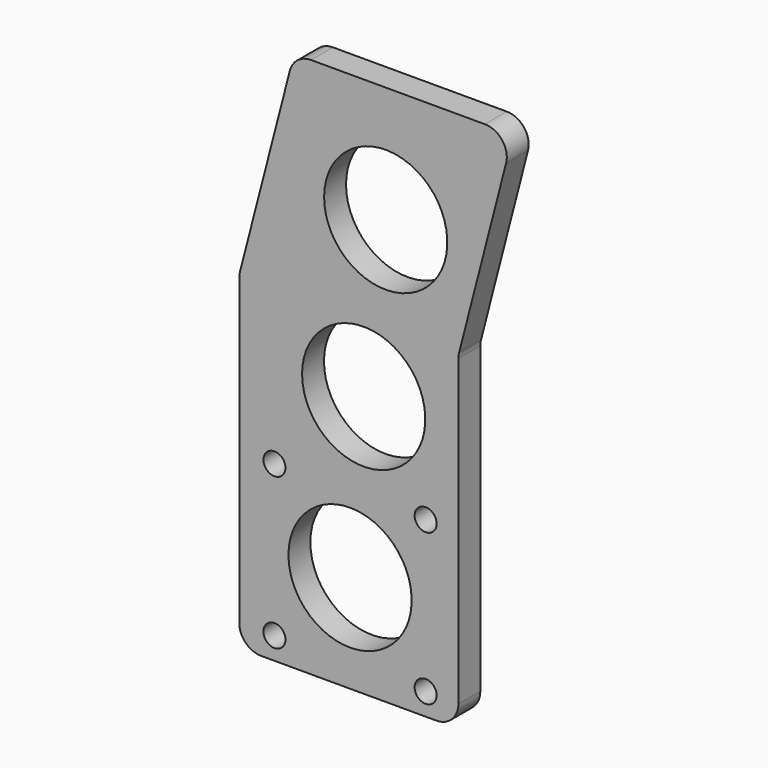
from build123d import *

# Parameters (mm, degrees)
F0_W     = 50.8
F0_H     = 76.2
F1_DEPTH = 6.35
F3_D     = 28.5623
F5_D     = 5.1054
F6_R     = 5.08


with BuildPart() as f1:
    # F0 (on Front) → F1 (new body)
    with BuildSketch(Plane.XZ):
        Polygon((-67.407699, 49.186888), (-80.107699, 0), (-29.307699, 0), (-16.607699, 49.186888), align=None)
        with Locations((-54.707699, -38.1)):
            Rectangle(F0_W, F0_H)
    extrude(amount=F1_DEPTH)

    # F3 (through all)
    with Locations(Plane.XZ.offset(6.35)):
        with Locations((-46.160249, 22.205738), (-51.269072, -15.550187), (-54.429126, -53.518912)):
            Hole(F3_D / 2)

    # F5 (through all)
    with Locations(Plane.XZ.offset(6.35)):
        with Locations((-36.903126, -35.992912), (-36.903126, -71.044912), (-71.955126, -71.044912), (-71.955126, -35.992912)):
            Hole(F5_D / 2)

    # F6
    f6_edges = [f1.edges().sort_by_distance(p)[0] for p in [
        (-67.407699, -3.175, 49.186888),
        (-16.607699, -3.175, 49.186888),
        (-80.107699, -3.175, 0),
        (-80.107699, -3.175, -76.2),
        (-29.307699, -3.175, -76.2),
        (-29.307699, -3.175, 0),
    ]]
    fillet(f6_edges, radius=F6_R)


solid = f1.part
